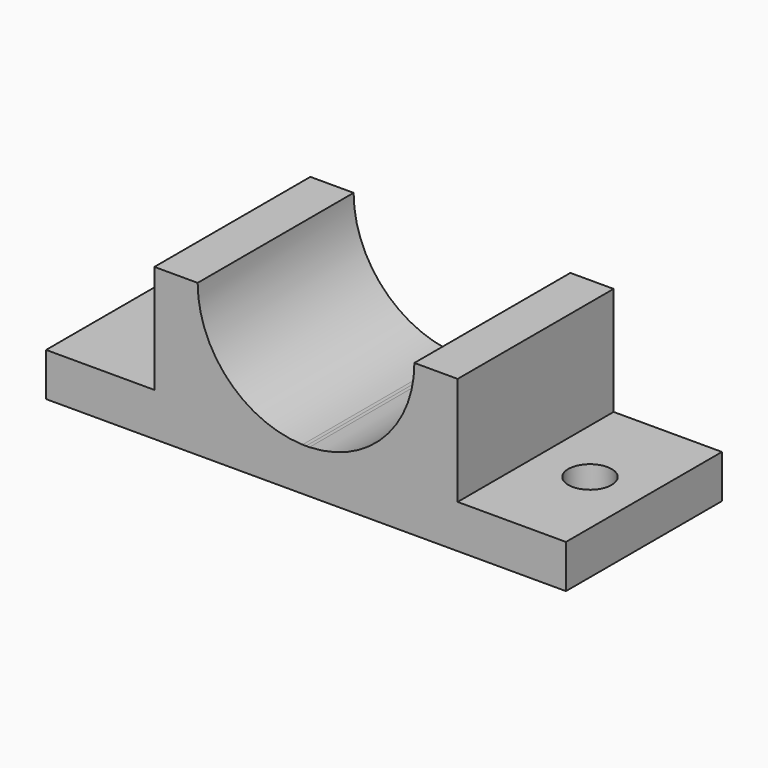
from build123d import *

# Parameters (mm, degrees)
F1_DEPTH = 57.15
F3_R     = 6.35
F4_DEPTH = 12.7
F6_R     = 6.3501577228
F7_DEPTH = 12.7


with BuildPart() as f1:
    # F0 (on Front) → F1 (new body)
    with BuildSketch(Plane.XZ):
        with BuildLine():
            Line((-836.8502492905, 108.3186204791), (-868.6002492905, 108.3186204791))
            Line((-868.6002492905, 108.3186204791), (-868.6002492905, 95.6186204791))
            Line((-868.6002492905, 95.6186204791), (-792.4002492905, 95.6186204791))
            Line((-792.4002492905, 95.6186204791), (-716.2002492905, 95.6186204791))
            Line((-716.2002492905, 95.6186204791), (-716.2002492905, 108.3186204791))
            Line((-716.2002492905, 108.3186204791), (-747.9502492905, 108.3186204791))
            Line((-747.9502492905, 108.3186204791), (-747.9502492905, 140.0686204791))
            Line((-747.9502492905, 140.0686204791), (-760.6336884818, 140.0686204791))
            ThreePointArc((-760.6336884818, 140.0686204791), (-769.5781696434, 117.9718545123), (-791.3746345435, 108.3186204791))
            ThreePointArc((-791.3746345435, 108.3186204791), (-791.8873750687, 108.3062001425), (-792.4002492905, 108.3020596705))
            ThreePointArc((-792.4002492905, 108.3020596705), (-792.9131235123, 108.3062001425), (-793.4258640374, 108.3186204791))
            ThreePointArc((-793.4258640374, 108.3186204791), (-815.2223289375, 117.9718545123), (-824.1668100991, 140.0686204791))
            Line((-824.1668100991, 140.0686204791), (-836.8502492905, 140.0686204791))
            Line((-836.8502492905, 140.0686204791), (-836.8502492905, 108.3186204791))
        make_face()
    extrude(amount=F1_DEPTH)

    # F3 (on offset) → F4 (cut)
    with BuildSketch(Plane.XY.offset(108.3186204791)):
        with Locations((-852.1803617477, -27.7651418)):
            Circle(F3_R)
    extrude(amount=-F4_DEPTH, mode=Mode.SUBTRACT)

    # F6 (on offset) → F7 (cut)
    with BuildSketch(Plane.XY.offset(108.3186204791)):
        with Locations((-732.0292592049, -28.564395383)):
            Circle(F6_R)
    extrude(amount=-F7_DEPTH, mode=Mode.SUBTRACT)


solid = f1.part
